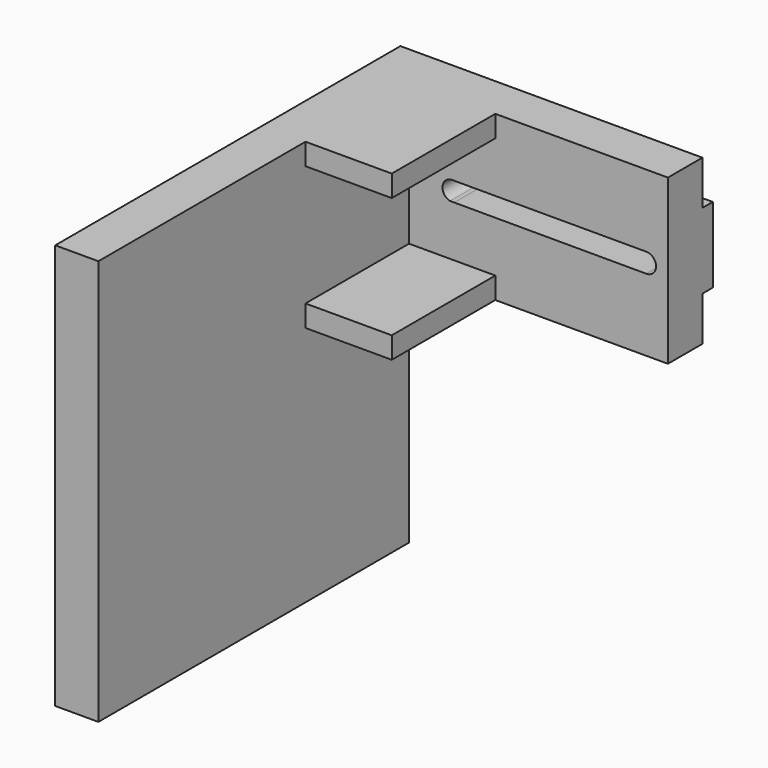
from build123d import *

# Parameters (mm, degrees)
F0_W     = 70
F0_H     = 10.25
F0_H_2   = 17.5
F1_DEPTH = 10
F2_DEPTH = 3
F4_DEPTH = 25
F5_W     = 10
F5_H     = 94
F6_DEPTH = 90
F7_W     = 30
F7_H     = 5
F8_DEPTH = 20


with BuildPart() as f1:
    # F0 (on Front) → F1 (new body)
    with BuildSketch(Plane.XZ):
        with Locations((0, 13.875)):
            Rectangle(F0_W, F0_H)
        Rectangle(F0_W, F0_H_2)
        with Locations((0, -13.875)):
            Rectangle(F0_W, F0_H)
    extrude(amount=F1_DEPTH)

    # F0 (on Front) → F2 (join)
    with BuildSketch(Plane.XZ):
        Rectangle(F0_W, F0_H_2)
    extrude(amount=-F2_DEPTH)

    # F3 (on face) → F4 (cut)
    with BuildSketch(Plane.XZ.offset(10)):
        with BuildLine():
            ThreePointArc((-12.75, 0), (-13.40901, 1.59099), (-15, 2.25))
            ThreePointArc((-15, 2.25), (-17.235535, 0.254723), (-15.506171, -2.192325))
            Line((-15.506171, -2.192325), (-14.499388, -2.193601))
            ThreePointArc((-14.499388, -2.193601), (-13.240898, -1.402876), (-12.75, 0))
        make_face()
        with BuildLine():
            ThreePointArc((29.997148, -2.249998), (27.75, 0.001426), (30, 2.25))
            Line((30, 2.25), (-15, 2.25))
            ThreePointArc((-15, 2.25), (-13.40901, 1.59099), (-12.75, 0))
            ThreePointArc((-12.75, 0), (-13.240898, -1.402876), (-14.499388, -2.193601))
            Line((-14.499388, -2.193601), (29.997148, -2.249998))
        make_face()
        with BuildLine():
            ThreePointArc((29.997148, -2.249998), (31.589982, -1.591998), (32.25, 0))
            ThreePointArc((32.25, 0), (31.59099, 1.59099), (30, 2.25))
            ThreePointArc((30, 2.25), (27.75, 0.001426), (29.997148, -2.249998))
        make_face()
    extrude(amount=-F4_DEPTH, mode=Mode.SUBTRACT)

    # F5 (on face) → F6 (join)
    with BuildSketch(Plane.XZ.offset(10)):
        with Locations((-30, -28)):
            Rectangle(F5_W, F5_H)
        with Locations((-30, -28)):
            Rectangle(F5_W, F5_H)
    extrude(amount=F6_DEPTH)

    # F7 (on face) → F8 (join)
    with BuildSketch(Plane.YZ.offset(-25)):
        with Locations((-25, 16.5)):
            Rectangle(F7_W, F7_H)
        with Locations((-25, -16.5)):
            Rectangle(F7_W, F7_H)
    extrude(amount=F8_DEPTH)


solid = f1.part
